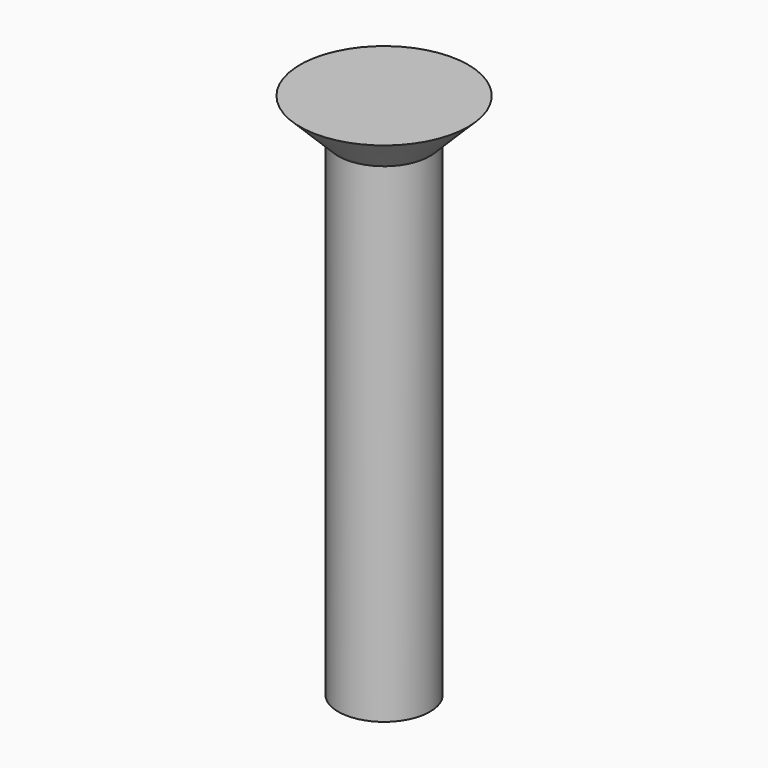
from build123d import *


with BuildPart() as part:
    # Sketch → Revolution (revolve)
    with BuildSketch(Plane.XZ):
        Polygon((0, 0), (1.5, 0), (1.5, 16), (2.75, 17.25), (0, 17.25), align=None)
    revolve(axis=Axis((0, 0, 0), (0, 0, 1)))


solid = part.part
